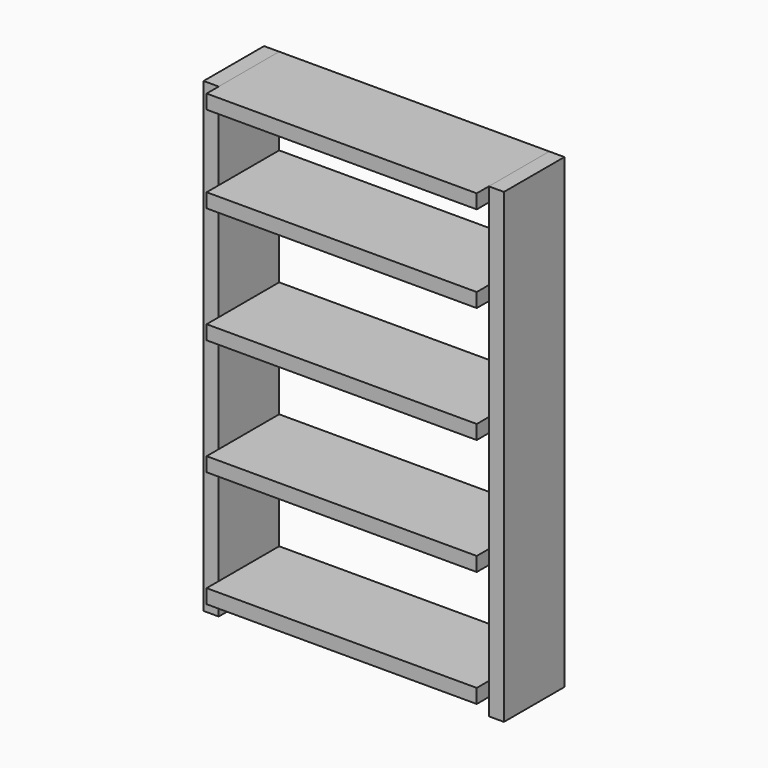
from build123d import *

# Parameters (mm, degrees)
F1_DEPTH = 254
F0_W     = 908.05
F0_H     = 47.625
F2_DEPTH = 304.8


with BuildPart() as f1:
    # F0 (on Front) → F1 (new body)
    with BuildSketch(Plane.XZ):
        Polygon((-728.100508, 353.784593), (-778.900508, 353.784593), (-778.900508, -1214.665407), (-728.100508, -1214.665407), (-728.100508, -1157.515407), (-728.100508, -1109.890407), (-728.100508, -766.990407), (-728.100508, -719.365407), (-728.100508, -376.465407), (-728.100508, -328.840407), (-728.100508, 14.059593), (-728.100508, 61.684593), (-728.100508, 306.159593), align=None)
        Polygon((230.749492, 353.784593), (179.949492, 353.784593), (179.949492, 306.159593), (179.949492, 61.684593), (179.949492, 14.059593), (179.949492, -328.840407), (179.949492, -376.465407), (179.949492, -719.365407), (179.949492, -766.990407), (179.949492, -1109.890407), (179.949492, -1157.515407), (179.949492, -1214.665407), (230.749492, -1214.665407), align=None)
    extrude(amount=F1_DEPTH)


with BuildPart() as f2:
    # F0 (on Front) → F2 (new body)
    with BuildSketch(Plane.XZ):
        with Locations((-274.075508, 329.972093)):
            Rectangle(F0_W, F0_H)
        with Locations((-274.075508, 37.872093)):
            Rectangle(F0_W, F0_H)
        with Locations((-274.075508, -352.652907)):
            Rectangle(F0_W, F0_H)
        with Locations((-274.075508, -743.177907)):
            Rectangle(F0_W, F0_H)
        with Locations((-274.075508, -1133.702907)):
            Rectangle(F0_W, F0_H)
    extrude(amount=F2_DEPTH)


solid = Compound([f1.part, f2.part])
